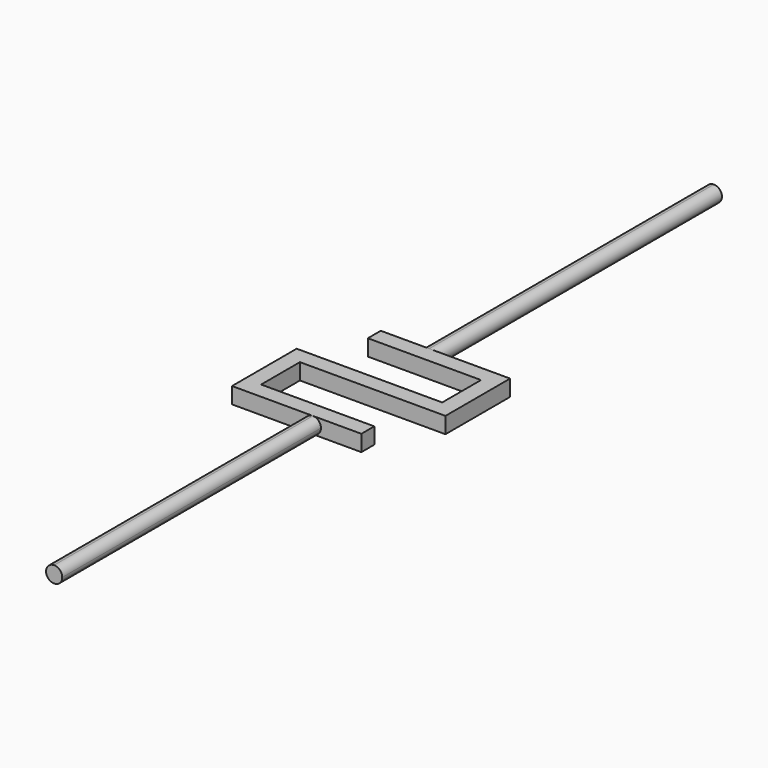
from build123d import *

# Parameters (mm, degrees)
F0_W      = 12.7
F0_H      = 12.7
F1_DEPTH  = 101.6
F2_W      = 38.1
F2_H      = 12.7
F2_W_2    = 12.7
F3_DEPTH  = 12.7
F4_W      = 38.1
F4_H      = 12.7
F4_W_2    = 12.7
F5_DEPTH  = 12.7
F6_W      = 88.9
F6_H      = 12.7
F6_W_2    = 12.7
F7_DEPTH  = 12.7
F8_W      = 88.9
F8_H      = 12.7
F8_W_2    = 12.7
F9_DEPTH  = 12.7
F11_DEPTH = 254
F13_DEPTH = 279.4


with BuildPart() as f1:
    # F0 (on Right) → F1 (new body)
    with BuildSketch(Plane.YZ):
        with Locations((-6.35, -6.35)):
            Rectangle(F0_W, F0_H)
    extrude(amount=F1_DEPTH)

    # F2 (on face) → F3 (join)
    with BuildSketch(Plane.YZ.offset(101.6)):
        with Locations((19.05, -6.35)):
            Rectangle(F2_W, F2_H)
        with Locations((-6.35, -6.35)):
            Rectangle(F2_W_2, F2_H)
    extrude(amount=F3_DEPTH)

    # F4 (on face) → F5 (join)
    with BuildSketch(Plane(origin=(0, 0, 0), x_dir=(0, -1, 0), z_dir=(-1, 0, 0))):
        with Locations((31.75, -6.35)):
            Rectangle(F4_W, F4_H)
        with Locations((6.35, -6.35)):
            Rectangle(F4_W_2, F4_H)
    extrude(amount=F5_DEPTH)

    # F6 (on face) → F7 (join)
    with BuildSketch(Plane.XZ.offset(50.8)):
        with Locations((44.45, -6.35)):
            Rectangle(F6_W, F6_H)
        with Locations((-6.35, -6.35)):
            Rectangle(F6_W_2, F6_H)
    extrude(amount=F7_DEPTH)

    # F8 (on face) → F9 (join)
    with BuildSketch(Plane(origin=(0, 38.1, 0), x_dir=(-1, 0, 0), z_dir=(0, 1, 0))):
        with Locations((-57.15, -6.35)):
            Rectangle(F8_W, F8_H)
        with Locations((-107.95, -6.35)):
            Rectangle(F8_W_2, F8_H)
    extrude(amount=F9_DEPTH)

    # F10 (on face) → F11 (join)
    with BuildSketch(Plane.XZ.offset(63.5)):
        with BuildLine():
            ThreePointArc((50.8, -12.7), (55.290128, -10.840128), (57.15, -6.35))
            ThreePointArc((57.15, -6.35), (55.290128, -1.859872), (50.8, 0))
            ThreePointArc((50.8, 0), (44.45, -6.35), (50.8, -12.7))
        make_face()
    extrude(amount=F11_DEPTH)

    # F12 (on face) → F13 (join)
    with BuildSketch(Plane(origin=(0, 50.8, 0), x_dir=(-1, 0, 0), z_dir=(0, 1, 0))):
        with BuildLine():
            ThreePointArc((-50.8, -12.7), (-46.309872, -10.840128), (-44.45, -6.35))
            ThreePointArc((-44.45, -6.35), (-46.309872, -1.859872), (-50.8, 0))
            ThreePointArc((-50.8, 0), (-57.15, -6.35), (-50.8, -12.7))
        make_face()
    extrude(amount=F13_DEPTH)


solid = f1.part
